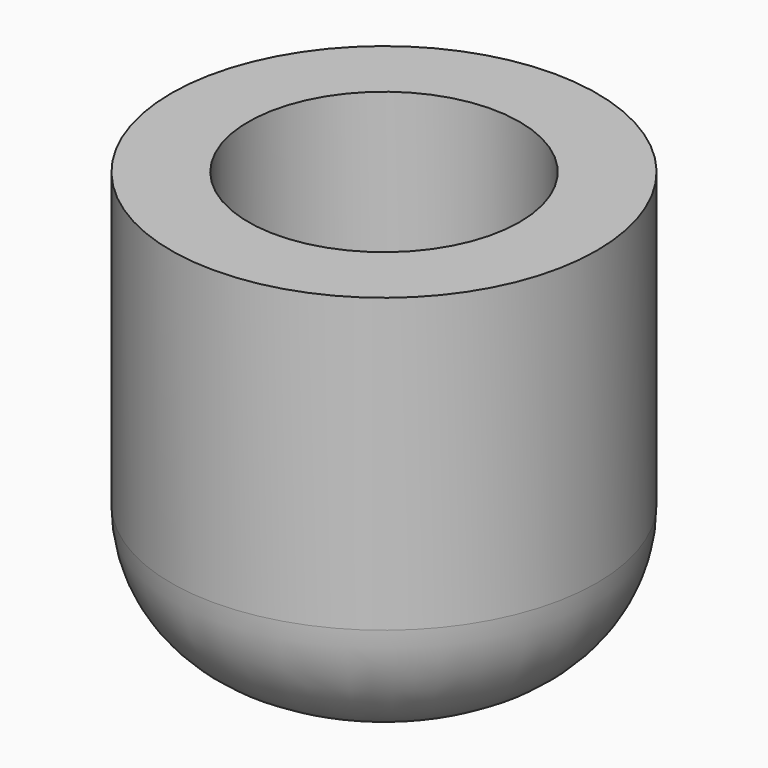
from build123d import *

# Parameters (mm, degrees)
F0_R     = 8
F1_DEPTH = 16
F2_R     = 5.1
F3_DEPTH = 14
F4_R     = 5


with BuildPart() as f1:
    # F0 (on Top) → F1 (new body)
    with BuildSketch(Plane.XY):
        Circle(F0_R)
    extrude(amount=F1_DEPTH)

    # F2 (on face) → F3 (cut)
    with BuildSketch(Plane.XY.offset(16)):
        Circle(F2_R)
    extrude(amount=-F3_DEPTH, mode=Mode.SUBTRACT)

    # F4
    f4_edges = [f1.edges().sort_by_distance(p)[0] for p in [
        (-8, 0, 0),
    ]]
    fillet(f4_edges, radius=F4_R)


solid = f1.part
